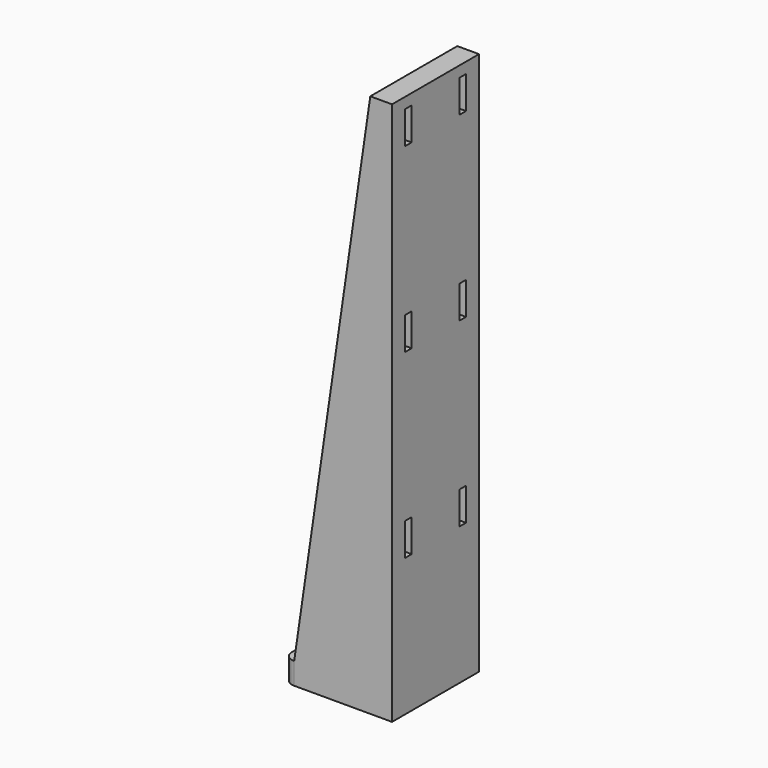
from build123d import *

# Parameters (mm, degrees)
F0_W      = 20
F0_H      = 20
F0_R      = 2.15
F1_DEPTH  = 4
F2_W      = 4
F2_H      = 20
F3_DEPTH  = 96
F4_W      = 1.5
F4_H      = 6
F5_DEPTH  = 20.001
F6_R      = 2
F8_DEPTH  = 2
F10_DEPTH = 2


with BuildPart() as f1:
    # F0 (on Top) → F1 (new body)
    with BuildSketch(Plane.XY):
        with Locations((10, 10)):
            Rectangle(F0_W, F0_H)
        with Locations((10, 10)):
            Circle(F0_R, mode=Mode.SUBTRACT)
    extrude(amount=F1_DEPTH)

    # F2 (on face) → F3 (join)
    with BuildSketch(Plane.XY.offset(4)):
        with Locations((18, 10)):
            Rectangle(F2_W, F2_H)
    extrude(amount=F3_DEPTH)

    # F4 (on face) → F5 (cut, through all)
    with BuildSketch(Plane.YZ.offset(20)):
        with Locations((3.75, 95)):
            Rectangle(F4_W, F4_H)
        with Locations((16.25, 95)):
            Rectangle(F4_W, F4_H)
        with Locations((3.75, 61.666667)):
            Rectangle(F4_W, F4_H)
        with Locations((16.25, 61.666667)):
            Rectangle(F4_W, F4_H)
        with Locations((3.75, 28.333333)):
            Rectangle(F4_W, F4_H)
        with Locations((16.25, 28.333333)):
            Rectangle(F4_W, F4_H)
    extrude(amount=-F5_DEPTH, mode=Mode.SUBTRACT)

    # F6
    f6_edges = [f1.edges().sort_by_distance(p)[0] for p in [
        (0, 0, 2),
        (0, 20, 2),
    ]]
    fillet(f6_edges, radius=F6_R)

    # F7 (on face) → F8 (join)
    with BuildSketch(Plane.XZ):
        Polygon((16, 4), (16, 100), (2, 4), align=None)
    extrude(amount=-F8_DEPTH)

    # F9 (on face) → F10 (join)
    with BuildSketch(Plane(origin=(0, 20, 0), x_dir=(-1, 0, 0), z_dir=(0, 1, 0))):
        Polygon((-16, 4), (-2, 4), (-16, 100), align=None)
    extrude(amount=-F10_DEPTH)


solid = f1.part
